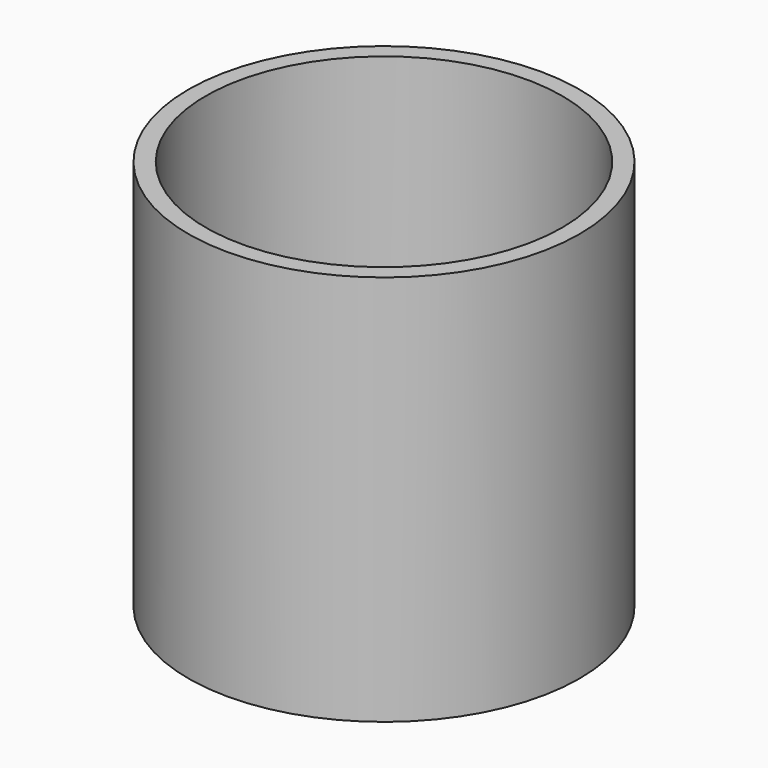
from build123d import *

# Parameters (mm, degrees)
F0_R     = 22.5
F0_R_2   = 20.5
F1_DEPTH = 10
F3_R     = 22.5
F3_R_2   = 20.5
F4_DEPTH = 35


with BuildPart() as f1:
    # F0 (on Top) → F1 (new body)
    with BuildSketch(Plane.XY):
        Circle(F0_R)
        Circle(F0_R_2, mode=Mode.SUBTRACT)
    extrude(amount=F1_DEPTH)

    # F3 (on offset) → F4 (join)
    with BuildSketch(Plane.XY.offset(10)):
        Circle(F3_R)
        Circle(F3_R_2, mode=Mode.SUBTRACT)
    extrude(amount=F4_DEPTH)


solid = f1.part
